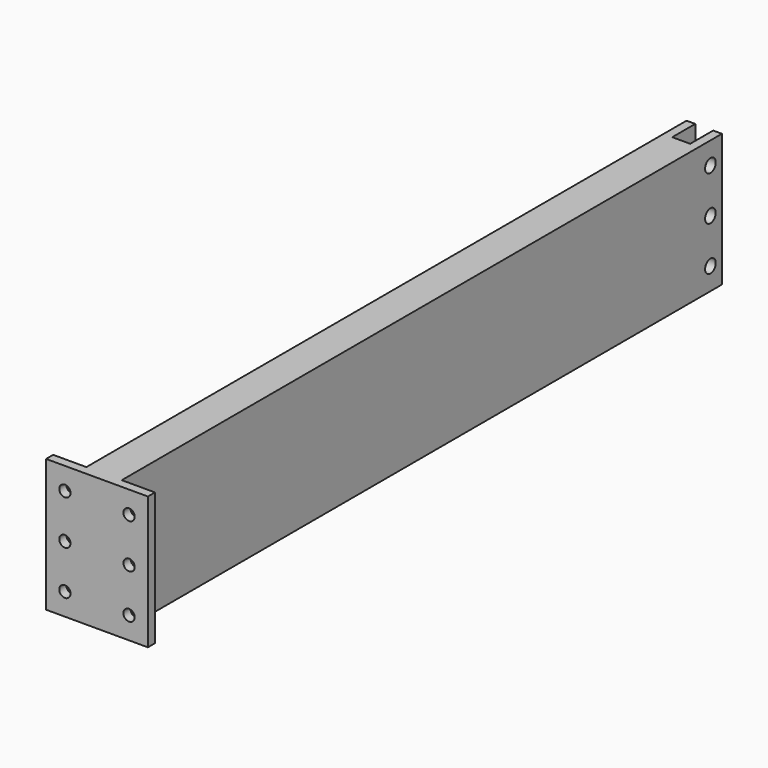
from build123d import *

# Parameters (mm, degrees)
PAD_DEPTH    = 60
SKETCH001_W  = 46
SKETCH001_H  = 60
SKETCH001_R  = 2.55
PAD001_DEPTH = 4
SKETCH002_R  = 3
HOLE_DEPTH   = 31.001


with BuildPart() as part:
    # Sketch → Pad (new body)
    with BuildSketch(Plane.XY):
        Polygon((-8, 0), (8, 0), (8, 343), (4.05, 343), (4.05, 330), (-4.05, 330), (-4.05, 343), (-8, 343), align=None)
    extrude(amount=PAD_DEPTH)

    # Sketch001 (on Face3 of Pad) → Pad001 (join)
    with BuildSketch(Plane.XZ):
        with Locations((0, 30)):
            Rectangle(SKETCH001_W, SKETCH001_H)
        with Locations((-14.5, 10)):
            Circle(SKETCH001_R, mode=Mode.SUBTRACT)
        with Locations((-14.5, 50)):
            Circle(SKETCH001_R, mode=Mode.SUBTRACT)
        with Locations((-14.5, 30)):
            Circle(SKETCH001_R, mode=Mode.SUBTRACT)
        with Locations((14.5, 50)):
            Circle(SKETCH001_R, mode=Mode.SUBTRACT)
        with Locations((14.5, 30)):
            Circle(SKETCH001_R, mode=Mode.SUBTRACT)
        with Locations((14.5, 10)):
            Circle(SKETCH001_R, mode=Mode.SUBTRACT)
    extrude(amount=-PAD001_DEPTH)

    # Sketch002 (on Face3 of Pad001) → Hole (cut, through all)
    with BuildSketch(Plane(origin=(-8, 0, 0), x_dir=(0, -1, 0), z_dir=(-1, 0, 0))):
        with Locations((-336.5, 50)):
            Circle(SKETCH002_R)
        with Locations((-336.5, 10)):
            Circle(SKETCH002_R)
        with Locations((-336.5, 30)):
            Circle(SKETCH002_R)
    extrude(amount=-HOLE_DEPTH, mode=Mode.SUBTRACT)


solid = part.part
